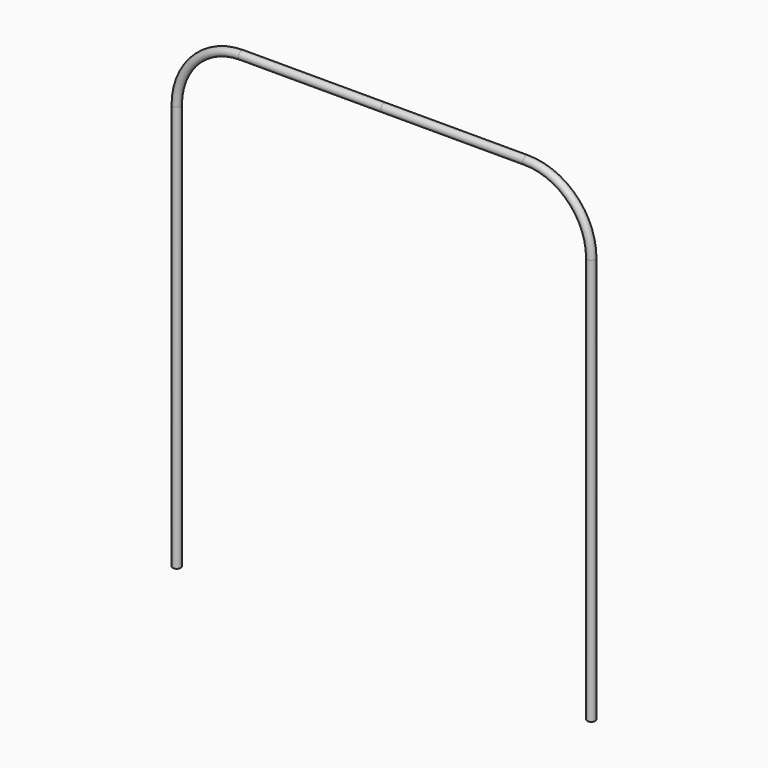
from build123d import *

# Parameters (mm, degrees)
F1_R = 1


with BuildPart() as f2:
    # F2: sweep along a path in F0
    with BuildLine(Plane.XZ) as f2_path:
        Line((0, 0), (-35, 0))
        ThreePointArc((-35, 0), (-45.606602, -4.393398), (-50, -15))
        Line((-50, -15), (-50, -115))
    # F1 (on Right) → F2 (sweep)
    with BuildSketch(Plane.YZ):
        with Locations((0, 1)):
            Circle(F1_R)
    sweep(path=f2_path.line)

    # F3: F2 across plane


with BuildPart() as f2_1:
    add(f2.part)
    add(f2.part.mirror(Plane.YZ))


solid = f2_1.part
